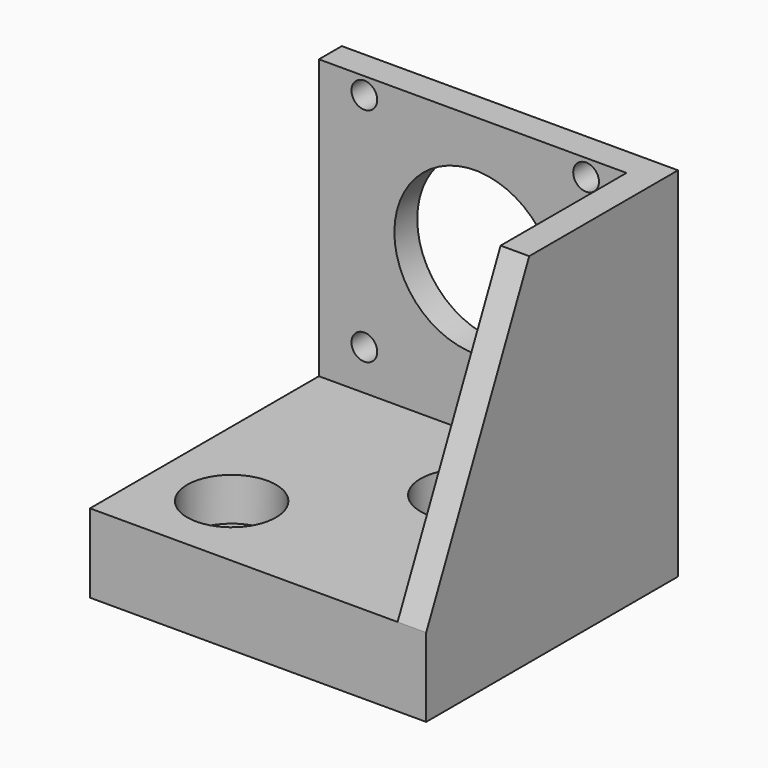
from build123d import *

# Parameters (mm, degrees)
CYLINDER108_R          = 1.8
CYLINDER108_DEPTH      = 10
CYLINDER111_R          = 1.8
CYLINDER111_DEPTH      = 10
CYLINDER109_R          = 1.8
CYLINDER109_DEPTH      = 10
CYLINDER110_R          = 1.8
CYLINDER110_DEPTH      = 10
CYLINDER106_R          = 2.5
CYLINDER106_DEPTH      = 24
CYLINDER107_R          = 11.3
CYLINDER107_DEPTH      = 6
BOX038_W               = 42.3
BOX038_H               = 39.8
BOX038_DEPTH           = 42.3
CYLINDER102_R          = 6.2
CYLINDER102_DEPTH      = 30
CYLINDER103_R          = 2.1
CYLINDER103_DEPTH      = 10
CYLINDER104_R          = 6.2
CYLINDER104_DEPTH      = 30
CYLINDER105_R          = 2.1
CYLINDER105_DEPTH      = 10
BOX037_W               = 47
BOX037_H               = 4
BOX037_DEPTH           = 50
BOX036_W               = 43
BOX036_H               = 40
BOX036_DEPTH           = 11
EXTRUDE_DEPTH          = 4
CUT097_PLACEMENT_ANGLE = 180


with BuildPart() as cylinder108:
    # Cylinder108 → Cylinder108 (new body)
    with BuildSketch(Plane(origin=(5.65, 0, 36.65), x_dir=(1, 0, 0), z_dir=(0, -1, 0))):
        Circle(CYLINDER108_R)
    extrude(amount=CYLINDER108_DEPTH)


with BuildPart() as cylinder111:
    # Cylinder111 → Cylinder111 (new body)
    with BuildSketch(Plane(origin=(36.65, 0, 36.65), x_dir=(1, 0, 0), z_dir=(0, -1, 0))):
        Circle(CYLINDER111_R)
    extrude(amount=CYLINDER111_DEPTH)


with BuildPart() as cylinder109:
    # Cylinder109 → Cylinder109 (new body)
    with BuildSketch(Plane(origin=(5.65, 0, 5.65), x_dir=(1, 0, 0), z_dir=(0, -1, 0))):
        Circle(CYLINDER109_R)
    extrude(amount=CYLINDER109_DEPTH)


with BuildPart() as cylinder110:
    # Cylinder110 → Cylinder110 (new body)
    with BuildSketch(Plane(origin=(36.65, 0, 5.65), x_dir=(1, 0, 0), z_dir=(0, -1, 0))):
        Circle(CYLINDER110_R)
    extrude(amount=CYLINDER110_DEPTH)


with BuildPart() as cylinder106:
    # Cylinder106 → Cylinder106 (new body)
    with BuildSketch(Plane(origin=(21.15, -2, 21.15), x_dir=(1, 0, 0), z_dir=(0, -1, 0))):
        Circle(CYLINDER106_R)
    extrude(amount=CYLINDER106_DEPTH)


with BuildPart() as cylinder107:
    # Cylinder107 → Cylinder107 (new body)
    with BuildSketch(Plane(origin=(21.15, 0, 21.15), x_dir=(1, 0, 0), z_dir=(0, -1, 0))):
        Circle(CYLINDER107_R)
    extrude(amount=CYLINDER107_DEPTH)


with BuildPart() as fusion050:
    # Box038 → Box038 (new body)
    with BuildSketch(Plane.XY):
        with Locations((21.15, 19.9)):
            Rectangle(BOX038_W, BOX038_H)
    extrude(amount=BOX038_DEPTH)

    # Fusion048: union Cylinder107
    add(cylinder107.part)

    # Fusion049: union Cylinder106
    add(cylinder106.part)

    # Fusion050: union Cylinder108, Cylinder111, Cylinder109, Cylinder110
    add(cylinder108.part)
    add(cylinder111.part)
    add(cylinder109.part)
    add(cylinder110.part)


with BuildPart() as fusion050_1:
    # Fusion050 placement: moved
    add(fusion050.part.moved(Location((9, 0, 11))))


with BuildPart() as cylinder102:
    # Cylinder102 → Cylinder102 (new body)
    with BuildSketch(Plane.XY.offset(10)):
        Circle(CYLINDER102_R)
    extrude(amount=CYLINDER102_DEPTH)


with BuildPart() as fusion046:
    # Cylinder103 → Cylinder103 (new body)
    with BuildSketch(Plane.XY):
        Circle(CYLINDER103_R)
    extrude(amount=CYLINDER103_DEPTH)

    # Fusion046: union Cylinder102
    add(cylinder102.part)


with BuildPart() as fusion046_1:
    # Fusion046 placement: moved
    add(fusion046.part.moved(Location((22, 12, -5))))


with BuildPart() as cylinder104:
    # Cylinder104 → Cylinder104 (new body)
    with BuildSketch(Plane.XY.offset(10)):
        Circle(CYLINDER104_R)
    extrude(amount=CYLINDER104_DEPTH)


with BuildPart() as fusion047:
    # Cylinder105 → Cylinder105 (new body)
    with BuildSketch(Plane.XY):
        Circle(CYLINDER105_R)
    extrude(amount=CYLINDER105_DEPTH)

    # Fusion047: union Cylinder104
    add(cylinder104.part)


with BuildPart() as fusion047_1:
    # Fusion047 placement: moved
    add(fusion047.part.moved(Location((41, 29, -5))))


with BuildPart() as box037:
    # Box037 → Box037 (new body)
    with BuildSketch(Plane(origin=(52, 0, 0), x_dir=(-1, 0, 0), z_dir=(0, 0, 1))):
        with Locations((23.5, 2)):
            Rectangle(BOX037_W, BOX037_H)
    extrude(amount=BOX037_DEPTH)


with BuildPart() as box036:
    # Box036 → Box036 (new body)
    with BuildSketch(Plane(origin=(9, 0, 0), x_dir=(1, 0, 0), z_dir=(0, 0, 1))):
        with Locations((21.5, 20)):
            Rectangle(BOX036_W, BOX036_H)
    extrude(amount=BOX036_DEPTH)


with BuildPart() as obj1:
    # Sketch024 → Extrude (new body)
    with BuildSketch(Plane.YZ):
        Polygon((0, 0), (0, 50), (22, 50), (40, 11), (40, 0), align=None)
    extrude(amount=-EXTRUDE_DEPTH)


with BuildPart() as obj1_1:
    # Extrude placement: moved
    add(obj1.part.moved(Location((9, 0, 0))))

    # Fusion045: union Box037, Box036
    add(box037.part)
    add(box036.part)

    # Cut095: cut Fusion047
    add(fusion047_1.part, mode=Mode.SUBTRACT)

    # Cut096: cut Fusion046
    add(fusion046_1.part, mode=Mode.SUBTRACT)

    # Cut097: cut Fusion050
    add(fusion050_1.part, mode=Mode.SUBTRACT)


with BuildPart() as obj1_2:
    # Cut097 placement: moved
    add(obj1_1.part.moved(Location((57, 6.5, 0))).rotate(Axis((57, 6.5, 0), (0, 0, 1)), CUT097_PLACEMENT_ANGLE))


solid = obj1_2.part
